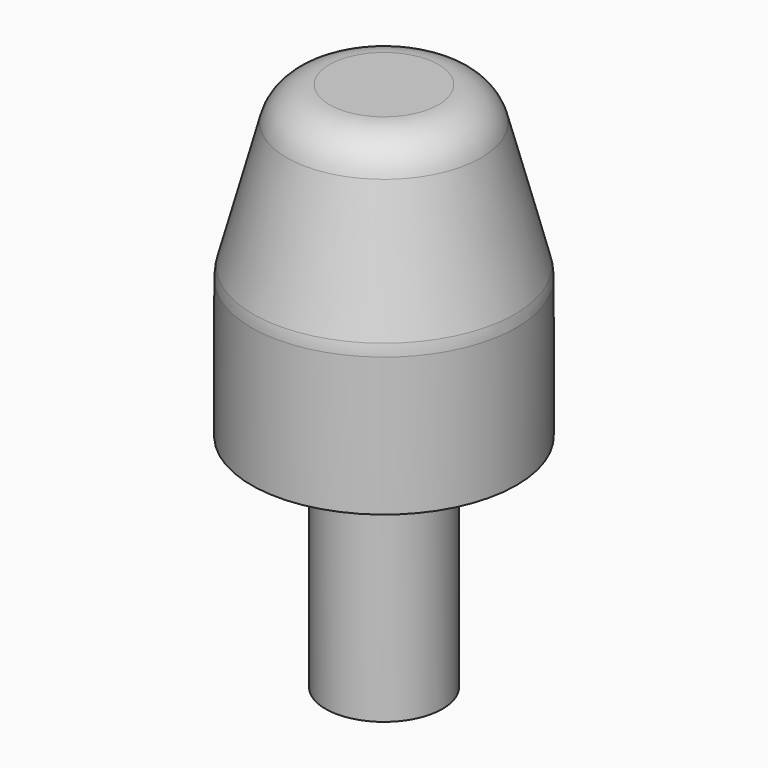
from build123d import *

# Parameters (mm, degrees)
F0_R     = 7.62
F1_DEPTH = 17.78
F2_SIZE2 = 9.4794090512
F2_SIZE  = 2.54
F3_R     = 2.54
F4_R     = 3.3655
F5_DEPTH = 12.7


with BuildPart() as f1:
    # F0 (on Top) → F1 (new body)
    with BuildSketch(Plane.XY):
        Circle(F0_R)
    extrude(amount=F1_DEPTH)

    # F2
    f2_edges = [f1.edges().sort_by_distance(p)[0] for p in [
        (-7.62, 0, 17.78),
    ]]
    f2_side = f1.faces().sort_by_distance((0, 0, 17.78))[0]
    chamfer(f2_edges, length=F2_SIZE, length2=F2_SIZE2, reference=f2_side)

    # F3
    f3_edges = [f1.edges().sort_by_distance(p)[0] for p in [
        (-5.08, 0, 17.78),
        (-7.62, 0, 8.300591),
    ]]
    fillet(f3_edges, radius=F3_R)

    # F4 (on face) → F5 (join)
    with BuildSketch(Plane(origin=(0, 0, 0), x_dir=(1, 0, 0), z_dir=(0, 0, -1))):
        Circle(F4_R)
    extrude(amount=F5_DEPTH)


solid = f1.part
